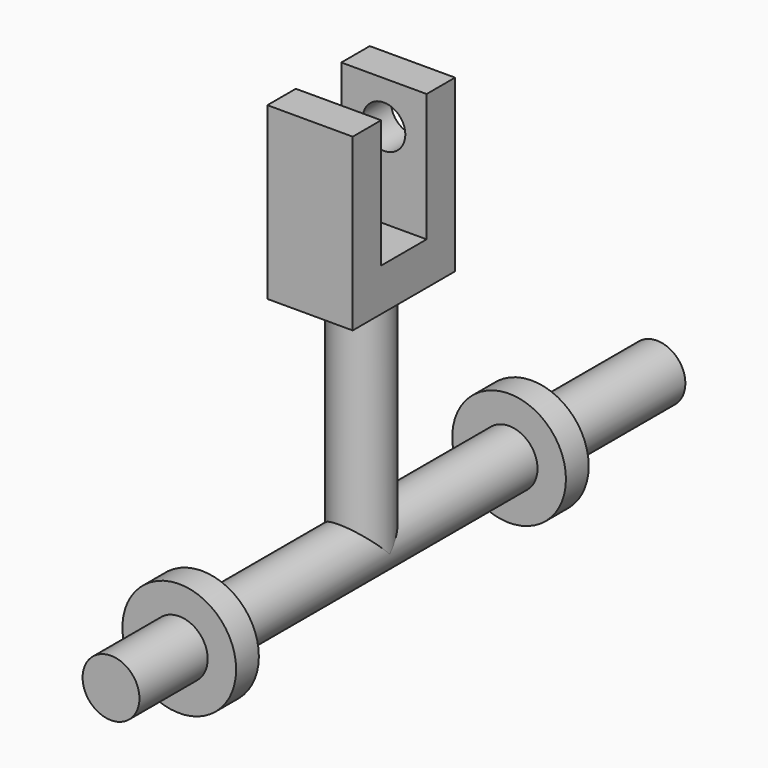
from build123d import *

# Parameters (mm, degrees)
F0_R      = 6.35
F1_DEPTH  = 152.4
F4_R      = 12.7
F5_DEPTH  = 6.35
F6_R      = 12.7
F7_DEPTH  = 6.35
F9_R      = 6.35
F10_DEPTH = 50.8
F11_W     = 19.05
F11_H     = 28.575
F12_DEPTH = 38.1
F13_W     = 12.7
F13_H     = 28.575
F14_DEPTH = 25.4
F15_R     = 4.7625
F16_DEPTH = 25.4


with BuildPart() as f1:
    # F0 (on Front) → F1 (new body)
    with BuildSketch(Plane.XZ):
        Circle(F0_R)
    extrude(amount=F1_DEPTH)

    # F4 (on offset) → F5 (join)
    with BuildSketch(Plane.XZ.offset(127)):
        Circle(F4_R)
    extrude(amount=F5_DEPTH)

    # F6 (on offset) → F7 (join)
    with BuildSketch(Plane.XZ.offset(34.925)):
        Circle(F6_R)
    extrude(amount=F7_DEPTH)

    # F9 (on offset) → F10 (join)
    with BuildSketch(Plane.XY):
        with Locations((0, -82.55)):
            Circle(F9_R)
    extrude(amount=F10_DEPTH)

    # F11 (on face) → F12 (join)
    with BuildSketch(Plane.XY.offset(50.8)):
        with Locations((0, -82.55)):
            Rectangle(F11_W, F11_H)
    extrude(amount=F12_DEPTH)

    # F13 (on face) → F14 (cut)
    with BuildSketch(Plane(origin=(-9.525, 0, 0), x_dir=(0, -1, 0), z_dir=(-1, 0, 0))):
        with Locations((82.55, 74.6125)):
            Rectangle(F13_W, F13_H)
    extrude(amount=-F14_DEPTH, mode=Mode.SUBTRACT)

    # F15 (on face) → F16 (cut)
    with BuildSketch(Plane(origin=(0, -68.2625, 0), x_dir=(-1, 0, 0), z_dir=(0, 1, 0))):
        with Locations((0, 79.375)):
            Circle(F15_R)
    extrude(amount=-F16_DEPTH, mode=Mode.SUBTRACT)


solid = f1.part
